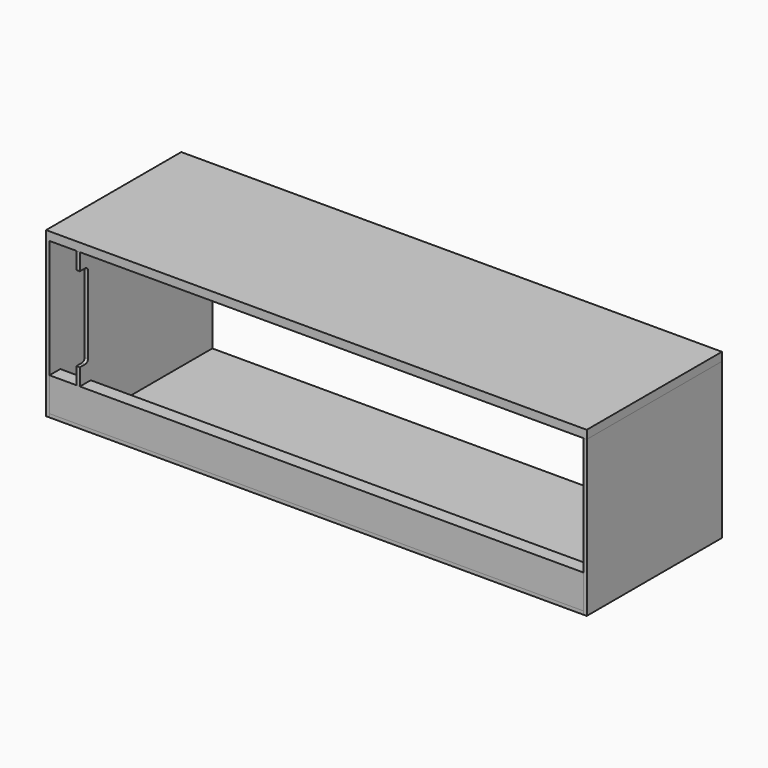
from build123d import *

# Parameters (mm, degrees)
F0_W      = 1600
F0_H      = 500
F1_DEPTH  = 25
F3_W      = 1580
F3_H      = 490
F4_DEPTH  = 10
F5_W      = 10
F5_H      = 500
F6_DEPTH  = 460
F7_W      = 10
F7_H      = 500
F8_DEPTH  = 460
F9_W      = 40
F9_H      = 100
F10_DEPTH = 1580
F11_W     = 10
F11_H     = 450
F12_DEPTH = 450
F13_W     = 10
F13_H     = 350
F14_DEPTH = 40
F16_W     = 30
F16_H     = 250
F17_DEPTH = 100.001
F18_R     = 10


with BuildPart() as f1:
    # F0 (on Top) → F1 (new body)
    with BuildSketch(Plane.XY):
        with Locations((800, 250)):
            Rectangle(F0_W, F0_H)
    extrude(amount=F1_DEPTH)

    # F5 (on face) → F6 (join, through all)
    with BuildSketch(Plane.XY):
        with Locations((5, 250)):
            Rectangle(F5_W, F5_H)
    extrude(amount=-F6_DEPTH)


with BuildPart() as f4:
    # F3 (on offset) → F4 (new body)
    with BuildSketch(Plane.XY.offset(-460)):
        with Locations((800, 245)):
            Rectangle(F3_W, F3_H)
    extrude(amount=F4_DEPTH)


with BuildPart() as f8:
    # F7 (on face) → F8 (new body, through all)
    with BuildSketch(Plane.XY):
        with Locations((1595, 250)):
            Rectangle(F7_W, F7_H)
    extrude(amount=-F8_DEPTH)


with BuildPart() as f10:
    # F9 (on face) → F10 (new body, through all)
    with BuildSketch(Plane.YZ.offset(10)):
        with Locations((20, -400)):
            Rectangle(F9_W, F9_H)
    extrude(amount=F10_DEPTH)


with BuildPart() as f12:
    # F11 (on face) → F12 (new body, through all)
    with BuildSketch(Plane.XY.offset(-450)):
        with Locations((95, 265)):
            Rectangle(F11_W, F11_H)
    extrude(amount=F12_DEPTH)


with BuildPart() as f14:
    # F13 (on face) → F14 (new body, through all)
    with BuildSketch(Plane.XZ.offset(-40)):
        with Locations((95, -175)):
            Rectangle(F13_W, F13_H)
    extrude(amount=F14_DEPTH)

    # F15: union F12
    add(f12.part)

    # F16 (on face) → F17 (cut, through all)
    with BuildSketch(Plane.YZ.offset(100)):
        with Locations((15, -175)):
            Rectangle(F16_W, F16_H)
    extrude(amount=-F17_DEPTH, mode=Mode.SUBTRACT)

    # F18
    f18_edges = [f14.edges().sort_by_distance(p)[0] for p in [
        (95, 30, -50),
        (95, 30, -300),
    ]]
    fillet(f18_edges, radius=F18_R)


solid = Compound([f1.part, f4.part, f8.part, f10.part, f14.part])
